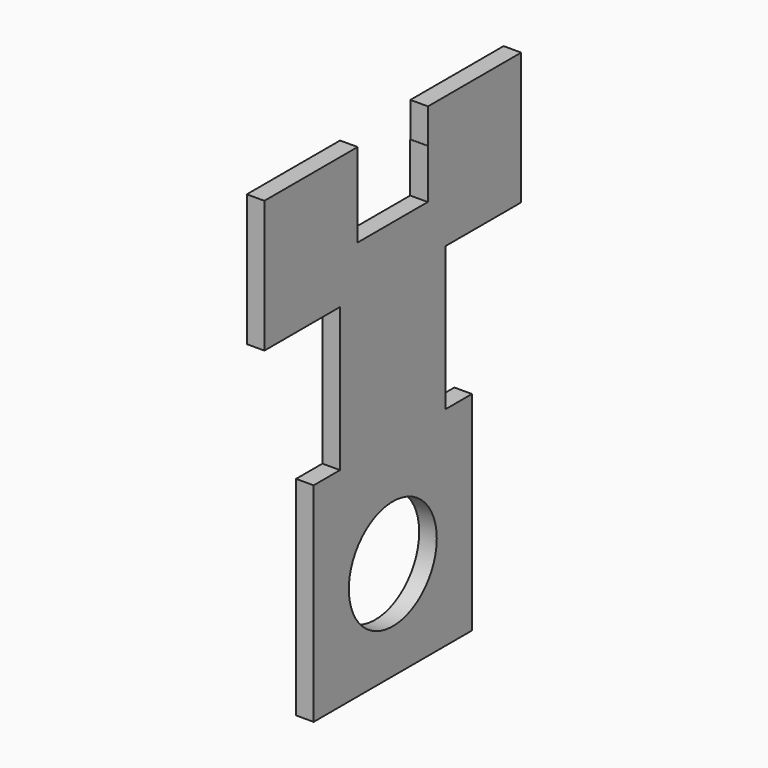
from build123d import *

# Parameters (mm, degrees)
F1_DEPTH = 4
F2_R     = 12.5
F3_DEPTH = 25


with BuildPart() as f1:
    # F0 (on Right) → F1 (new body)
    with BuildSketch(Plane.YZ):
        Polygon((-10, 53.037333), (-36.5, 53.037333), (-36.5, 23.037333), (-15, 23.037333), (-15, 0), (-15, -9.621711), (-22.5, -9.621711), (-22.5, -56.990132), (0, -56.990132), (22.5, -56.990132), (22.5, -9.621711), (15, -9.621711), (15, 0), (15, 23.037333), (36.5, 23.037333), (36.5, 53.037333), (10, 53.037333), (10, 45.139179), (9.945652, 45.139179), (9.945652, 33.913046), (-10, 33.913046), (-10, 45.139179), align=None)
    extrude(amount=F1_DEPTH)

    # F2 (on face) → F3 (cut)
    with BuildSketch(Plane.YZ.offset(4)):
        with Locations((0, -34.490132)):
            Circle(F2_R)
    extrude(amount=-F3_DEPTH, mode=Mode.SUBTRACT)


solid = f1.part
